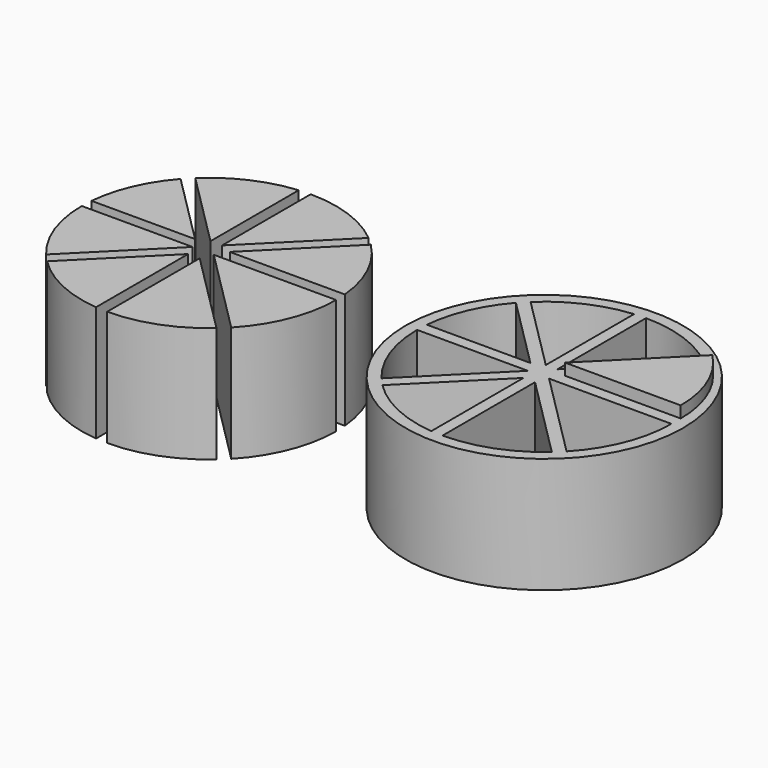
from build123d import *

# Parameters (mm, degrees)
BOX005_W               = 30
BOX005_H               = 1
BOX005_DEPTH           = 10
BOX006_W               = 45
BOX006_H               = 1
BOX006_DEPTH           = 10
BOX006_PLACEMENT_ANGLE = 45
BOX007_W               = 40
BOX007_H               = 1
BOX007_DEPTH           = 10
BOX007_PLACEMENT_ANGLE = 45
BOX004_W               = 30
BOX004_H               = 1
BOX004_DEPTH           = 10
CYLINDER002_R          = 11
CYLINDER002_DEPTH      = 10
BOX001_W               = 30
BOX001_H               = 1
BOX001_DEPTH           = 10
BOX002_W               = 45
BOX002_H               = 1
BOX002_DEPTH           = 10
BOX002_PLACEMENT_ANGLE = 45
BOX003_W               = 40
BOX003_H               = 1
BOX003_DEPTH           = 10
BOX003_PLACEMENT_ANGLE = 45
BOX_W                  = 30
BOX_H                  = 1
BOX_DEPTH              = 10
CYLINDER001_R          = 11
CYLINDER001_DEPTH      = 10
CYLINDER_R             = 12
CYLINDER_DEPTH         = 10
CYLINDER003_W          = 10
CYLINDER003_H          = 10
CYLINDER003_ANGLE      = 45


with BuildPart() as cub005:
    # Box005 → Box005 (new body)
    with BuildSketch(Plane(origin=(0, -15, 0), x_dir=(0, 1, 0), z_dir=(0, 0, 1))):
        with Locations((15, 0.5)):
            Rectangle(BOX005_W, BOX005_H)
    extrude(amount=BOX005_DEPTH)


with BuildPart() as cub006:
    # Box006 → Box006 (new body)
    with BuildSketch(Plane.XY):
        with Locations((22.5, 0.5)):
            Rectangle(BOX006_W, BOX006_H)
    extrude(amount=BOX006_DEPTH)


with BuildPart() as cub006_1:
    # Box006 placement: moved
    add(cub006.part.moved(Location((-15, -15, 0))).rotate(Axis((-15, -15, 0), (0, 0, 1)), BOX006_PLACEMENT_ANGLE))


with BuildPart() as cub007:
    # Box007 → Box007 (new body)
    with BuildSketch(Plane.XY):
        with Locations((20, 0.5)):
            Rectangle(BOX007_W, BOX007_H)
    extrude(amount=BOX007_DEPTH)


with BuildPart() as cub007_1:
    # Box007 placement: moved
    add(cub007.part.moved(Location((-18, 17, 0))).rotate(Axis((-18, 17, 0), (0, 0, -1)), BOX007_PLACEMENT_ANGLE))


with BuildPart() as cub004:
    # Box004 → Box004 (new body)
    with BuildSketch(Plane(origin=(-14, 0, 0), x_dir=(1, 0, 0), z_dir=(0, 0, 1))):
        with Locations((15, 0.5)):
            Rectangle(BOX004_W, BOX004_H)
    extrude(amount=BOX004_DEPTH)


with BuildPart() as cut007:
    # Cylinder002 → Cylinder002 (new body)
    with BuildSketch(Plane.XY):
        Circle(CYLINDER002_R)
    extrude(amount=CYLINDER002_DEPTH)

    # Cut004: cut Cub004
    add(cub004.part, mode=Mode.SUBTRACT)

    # Cut005: cut Cub007
    add(cub007_1.part, mode=Mode.SUBTRACT)

    # Cut006: cut Cub006
    add(cub006_1.part, mode=Mode.SUBTRACT)

    # Cut007: cut Cub005
    add(cub005.part, mode=Mode.SUBTRACT)


with BuildPart() as cut007_1:
    # Cut007 placement: moved
    add(cut007.part.moved(Location((-29, 0, 0))))


with BuildPart() as cub001:
    # Box001 → Box001 (new body)
    with BuildSketch(Plane(origin=(0, -15, 0), x_dir=(0, 1, 0), z_dir=(0, 0, 1))):
        with Locations((15, 0.5)):
            Rectangle(BOX001_W, BOX001_H)
    extrude(amount=BOX001_DEPTH)


with BuildPart() as cub002:
    # Box002 → Box002 (new body)
    with BuildSketch(Plane.XY):
        with Locations((22.5, 0.5)):
            Rectangle(BOX002_W, BOX002_H)
    extrude(amount=BOX002_DEPTH)


with BuildPart() as cub002_1:
    # Box002 placement: moved
    add(cub002.part.moved(Location((-15, -15, 0))).rotate(Axis((-15, -15, 0), (0, 0, 1)), BOX002_PLACEMENT_ANGLE))


with BuildPart() as cub003:
    # Box003 → Box003 (new body)
    with BuildSketch(Plane.XY):
        with Locations((20, 0.5)):
            Rectangle(BOX003_W, BOX003_H)
    extrude(amount=BOX003_DEPTH)


with BuildPart() as cub003_1:
    # Box003 placement: moved
    add(cub003.part.moved(Location((-18, 17, 0))).rotate(Axis((-18, 17, 0), (0, 0, -1)), BOX003_PLACEMENT_ANGLE))


with BuildPart() as cub:
    # Box → Box (new body)
    with BuildSketch(Plane(origin=(-14, 0, 0), x_dir=(1, 0, 0), z_dir=(0, 0, 1))):
        with Locations((15, 0.5)):
            Rectangle(BOX_W, BOX_H)
    extrude(amount=BOX_DEPTH)


with BuildPart() as cut003:
    # Cylinder001 → Cylinder001 (new body)
    with BuildSketch(Plane.XY):
        Circle(CYLINDER001_R)
    extrude(amount=CYLINDER001_DEPTH)

    # Cut: cut Cub
    add(cub.part, mode=Mode.SUBTRACT)

    # Cut001: cut Cub003
    add(cub003_1.part, mode=Mode.SUBTRACT)

    # Cut002: cut Cub002
    add(cub002_1.part, mode=Mode.SUBTRACT)

    # Cut003: cut Cub001
    add(cub001.part, mode=Mode.SUBTRACT)


with BuildPart() as cut003_1:
    # Cut003 placement: moved
    add(cut003.part.moved(Location((0, 0, 1))))


with BuildPart() as cut008:
    # Cylinder → Cylinder (new body)
    with BuildSketch(Plane.XY):
        Circle(CYLINDER_R)
    extrude(amount=CYLINDER_DEPTH)

    # Cut008: cut Cut003
    add(cut003_1.part, mode=Mode.SUBTRACT)


with BuildPart() as cilindre003:
    # Cylinder003 → Cylinder003 (revolve)
    with BuildSketch(Plane(origin=(1, 1, 1), x_dir=(1, 0, 0), z_dir=(0, -1, 0))):
        with Locations((5, 5)):
            Rectangle(CYLINDER003_W, CYLINDER003_H)
    revolve(axis=Axis((1, 1, 1), (0, 0, 1)), revolution_arc=CYLINDER003_ANGLE)


solid = Compound([cut007_1.part, cut008.part, cilindre003.part])
